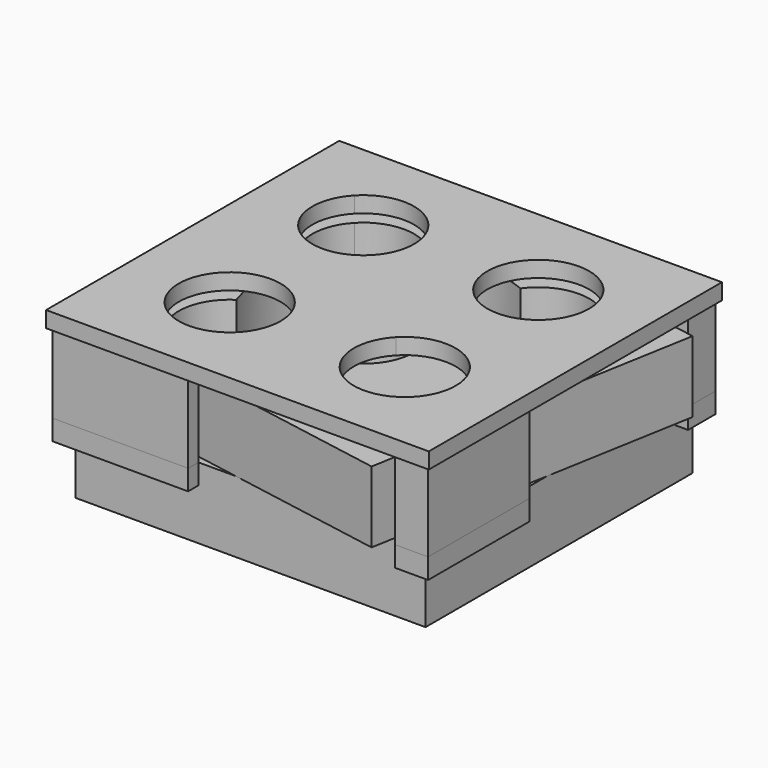
from build123d import *

# Parameters (mm, degrees)
F0_W      = 109.22
F0_H      = 104.14
F1_DEPTH  = 22.225
F2_R      = 38.1
F3_DEPTH  = 22.225
F4_W      = 6.2755517351
F4_H      = 4
F5_DEPTH  = 6.35
F4_W_2    = 4
F4_H_2    = 6.7626058602
F6_DEPTH  = 25.4
F8_W      = 119.38
F8_H      = 114.3
F9_DEPTH  = 5
F11_DEPTH = 89.408


with BuildPart() as f1:
    # F0 (on Top) → F1 (new body)
    with BuildSketch(Plane.XY):
        Rectangle(F0_W, F0_H)
    extrude(amount=F1_DEPTH)


with BuildPart() as f3:
    # F2 (on face) → F3 (new body)
    with BuildSketch(Plane.XY.offset(22.225)):
        Polygon((-4.5555347098, -52.07), (44.7384907809, -60.7618666817), (46.2711013896, -52.07), align=None)
        Polygon((-54.61, -43.2440472644), (-4.5555347098, -52.07), (46.2711013896, -52.07), (54.61, -4.7777559152), (54.61, 43.2440472644), (4.5555347098, 52.07), (-46.2711013896, 52.07), (-54.61, 4.7777559152), align=None)
        Circle(F2_R, mode=Mode.SUBTRACT)
        Polygon((54.61, 43.2440472644), (54.61, -4.7777559152), (62.8222120031, 41.796012717), align=None)
        Polygon((-44.7384907809, 60.7618666817), (-46.2711013896, 52.07), (4.5555347098, 52.07), align=None)
        Polygon((-62.8222120031, -41.796012717), (-54.61, -43.2440472644), (-54.61, 4.7777559152), align=None)
    extrude(amount=F3_DEPTH)


with BuildPart() as f5:
    # F4 (on face) → F5 (new body)
    with BuildSketch(Plane.XY.offset(22.225)):
        with Locations((-51.4722241325, 54.07)):
            Rectangle(F4_W, F4_H)
        Polygon((-54.61, 16.4795775369), (-54.61, 52.07), (-54.61, 56.07), (-58.61, 56.07), (-58.61, 16.4795775369), align=None)
    extrude(amount=-F5_DEPTH)


with BuildPart() as f5b:
    # F4 (on face) → F5, piece 2 (new body)
    with BuildSketch(Plane.XY.offset(22.225)):
        with Locations((-56.61, -48.6886970699)):
            Rectangle(F4_W_2, F4_H_2)
        Polygon((-16.2573563315, -56.07), (-16.2573563315, -52.07), (-54.61, -52.07), (-58.61, -52.07), (-58.61, -56.07), align=None)
    extrude(amount=-F5_DEPTH)


with BuildPart() as f5c:
    # F4 (on face) → F5, piece 3 (new body)
    with BuildSketch(Plane.XY.offset(22.225)):
        with Locations((51.4722241325, -54.07)):
            Rectangle(F4_W, F4_H)
        Polygon((58.61, -16.4795775369), (54.61, -16.4795775369), (54.61, -52.07), (54.61, -56.07), (58.61, -56.07), align=None)
    extrude(amount=-F5_DEPTH)


with BuildPart() as f5d:
    # F4 (on face) → F5, piece 4 (new body)
    with BuildSketch(Plane.XY.offset(22.225)):
        Polygon((16.2573563315, 56.07), (16.2573563315, 52.07), (54.61, 52.07), (58.61, 52.07), (58.61, 56.07), align=None)
        with Locations((56.61, 48.6886970699)):
            Rectangle(F4_W_2, F4_H_2)
    extrude(amount=-F5_DEPTH)


with BuildPart() as f6:
    # F4 (on face) + F5_face (on face) → F6 (new body)
    with BuildSketch(Plane.XY.offset(22.225)):
        Polygon((54.61, -16.4795775369), (48.3344482649, -52.07), (54.61, -52.07), align=None)
        Polygon((54.61, 52.07), (16.2573563315, 52.07), (54.61, 45.3073941398), align=None)
        Polygon((-48.3344482649, 52.07), (-54.61, 52.07), (-54.61, 16.4795775369), align=None)
        Polygon((-16.2573563315, -52.07), (-54.61, -45.3073941398), (-54.61, -52.07), align=None)
    with BuildSketch(Plane(origin=(40.074037477, 53.3290563811, 22.225), x_dir=(1, 0, 0), z_dir=(0, 0, 1))):
        Polygon((-23.8166811454, 2.7409436189), (-23.8166811454, -1.2590563811), (14.535962523, -1.2590563811), (14.535962523, -8.0216622413), (18.535962523, -8.0216622413), (18.535962523, 2.7409436189), align=None)
        Polygon((8.260410788, -105.3990563811), (8.260410788, -109.3990563811), (18.535962523, -109.3990563811), (18.535962523, -69.808633918), (14.535962523, -69.808633918), (14.535962523, -105.3990563811), align=None)
        Polygon((-94.684037477, -105.3990563811), (-94.684037477, -98.6364505208), (-98.684037477, -98.6364505208), (-98.684037477, -109.3990563811), (-56.3313938085, -109.3990563811), (-56.3313938085, -105.3990563811), align=None)
        Polygon((-94.684037477, -1.2590563811), (-88.4084857419, -1.2590563811), (-88.4084857419, 2.7409436189), (-98.684037477, 2.7409436189), (-98.684037477, -36.8494788442), (-94.684037477, -36.8494788442), align=None)
    extrude(amount=F6_DEPTH)

    # F8 (on offset) → F9 (join)
    with BuildSketch(Plane.XY.offset(46.99)):
        Rectangle(F8_W, F8_H)
    extrude(amount=F9_DEPTH)


with BuildPart() as f11_tool:
    # F10 (on face) → F11 (new body)
    with BuildSketch(Plane(origin=(0, 0, 0), x_dir=(1, 0, 0), z_dir=(0, 0, -1))):
        with BuildLine():
            Line((-38.7943335263, 36.9899459205), (-15.8156664737, 15.0800540795))
            ThreePointArc((-15.8156664737, 15.0800540795), (-12.5671440716, 20.1348959641), (-11.43, 26.035))
            ThreePointArc((-11.43, 26.035), (-21.4048959641, 40.7728559284), (-38.7943335263, 36.9899459205))
        make_face()
        with BuildLine():
            ThreePointArc((-38.7943335263, 36.9899459205), (-38.2599459205, 14.5456664737), (-15.8156664737, 15.0800540795))
            Line((-15.8156664737, 15.0800540795), (-38.7943335263, 36.9899459205))
        make_face()
        with BuildLine():
            Line((-38.7943335263, -36.9899459205), (-15.8156664737, -15.0800540795))
            ThreePointArc((-15.8156664737, -15.0800540795), (-38.2599459205, -14.5456664737), (-38.7943335263, -36.9899459205))
        make_face()
        with BuildLine():
            ThreePointArc((-11.43, -26.035), (-12.5671440716, -20.1348959641), (-15.8156664737, -15.0800540795))
            Line((-15.8156664737, -15.0800540795), (-38.7943335263, -36.9899459205))
            ThreePointArc((-38.7943335263, -36.9899459205), (-21.4048959641, -40.7728559284), (-11.43, -26.035))
        make_face()
        with BuildLine():
            Line((38.7943335263, -36.9899459205), (15.8156664737, -15.0800540795))
            ThreePointArc((15.8156664737, -15.0800540795), (16.3500540795, -37.5243335263), (38.7943335263, -36.9899459205))
        make_face()
        with BuildLine():
            ThreePointArc((43.18, -26.035), (33.2051040359, -11.2971440716), (15.8156664737, -15.0800540795))
            Line((15.8156664737, -15.0800540795), (38.7943335263, -36.9899459205))
            ThreePointArc((38.7943335263, -36.9899459205), (42.0428559284, -31.9351040359), (43.18, -26.035))
        make_face()
        with BuildLine():
            Line((38.7943335263, 36.9899459205), (15.8156664737, 15.0800540795))
            ThreePointArc((15.8156664737, 15.0800540795), (33.2051040359, 11.2971440716), (43.18, 26.035))
            ThreePointArc((43.18, 26.035), (42.0428559284, 31.9351040359), (38.7943335263, 36.9899459205))
        make_face()
        with BuildLine():
            ThreePointArc((38.7943335263, 36.9899459205), (16.3500540795, 37.5243335263), (15.8156664737, 15.0800540795))
            Line((15.8156664737, 15.0800540795), (38.7943335263, 36.9899459205))
        make_face()
    extrude(amount=-F11_DEPTH)


with BuildPart() as f1_1:
    add(f1.part)

    # F11: cut by f11_tool
    add(f11_tool.part, mode=Mode.SUBTRACT)


with BuildPart() as f3_1:
    add(f3.part)

    # F11: cut by f11_tool
    add(f11_tool.part, mode=Mode.SUBTRACT)


with BuildPart() as f6_1:
    add(f6.part)

    # F11: cut by f11_tool
    add(f11_tool.part, mode=Mode.SUBTRACT)


solid = Compound([f5.part, f5b.part, f5c.part, f5d.part, f1_1.part, f3_1.part, f6_1.part])
